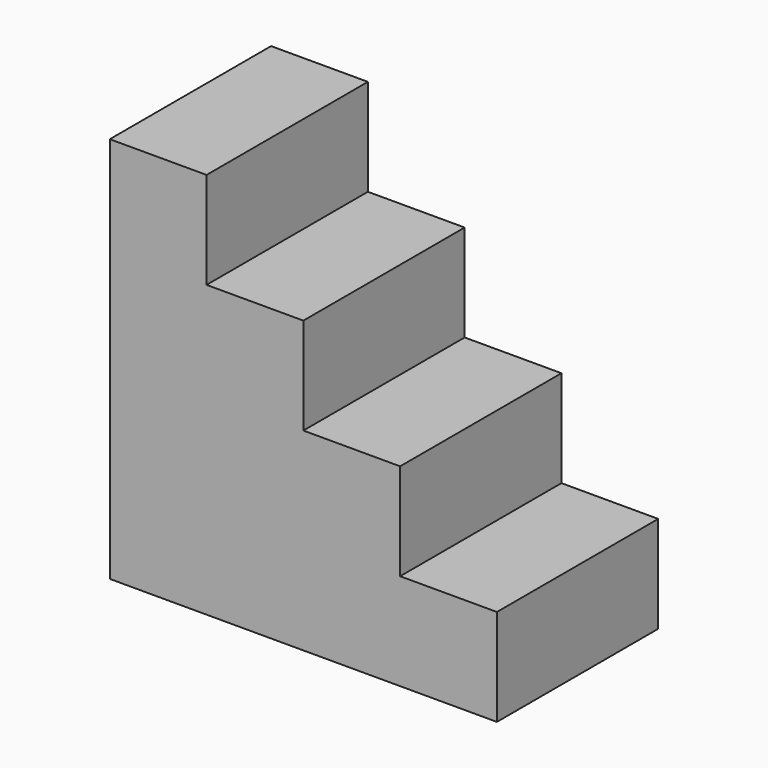
from build123d import *

# Parameters (mm, degrees)
F0_W     = 476.25
F0_H     = 914.4
F1_DEPTH = 228.6
F2_W     = 476.25
F2_H     = 685.8
F3_DEPTH = 228.6
F4_W     = 476.25
F4_H     = 457.2
F5_DEPTH = 228.6
F6_W     = 476.25
F6_H     = 228.6
F7_DEPTH = 228.6


with BuildPart() as f1:
    # F0 (on Right) → F1 (new body)
    with BuildSketch(Plane.YZ):
        with Locations((-18.221811, 93.697212)):
            Rectangle(F0_W, F0_H)
    extrude(amount=F1_DEPTH)

    # F2 (on face) → F3 (join)
    with BuildSketch(Plane.YZ.offset(228.6)):
        with Locations((-18.221811, -20.602788)):
            Rectangle(F2_W, F2_H)
    extrude(amount=F3_DEPTH)

    # F4 (on face) → F5 (join)
    with BuildSketch(Plane.YZ.offset(457.2)):
        with Locations((-18.221811, -134.902788)):
            Rectangle(F4_W, F4_H)
    extrude(amount=F5_DEPTH)

    # F6 (on face) → F7 (join)
    with BuildSketch(Plane.YZ.offset(685.8)):
        with Locations((-18.221811, -249.202788)):
            Rectangle(F6_W, F6_H)
    extrude(amount=F7_DEPTH)


solid = f1.part
